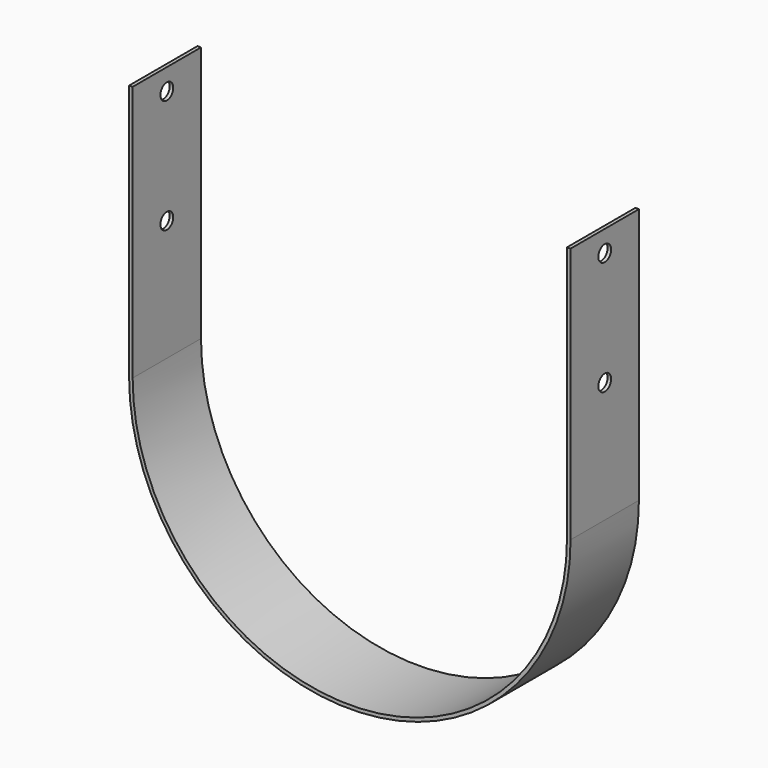
from build123d import *

# Parameters (mm, degrees)
F1_DEPTH = 38.1
F2_R     = 7.14375
F3_DEPTH = 508


with BuildPart() as f1:
    # F0 (on Front) → F1 (new body, symmetric)
    with BuildSketch(Plane.XZ):
        with BuildLine():
            ThreePointArc((193.675, 0), (0, -193.675), (-193.675, 0))
            Line((-193.675, 0), (-193.675, 228.6))
            Line((-193.675, 228.6), (-196.85, 228.6))
            Line((-196.85, 228.6), (-196.85, 0))
            ThreePointArc((-196.85, 0), (0, -196.85), (196.85, 0))
            Line((196.85, 0), (196.85, 228.6))
            Line((196.85, 228.6), (193.675, 228.6))
            Line((193.675, 228.6), (193.675, 0))
        make_face()
    extrude(amount=F1_DEPTH, both=True)

    # F2 (on face) → F3 (cut)
    with BuildSketch(Plane(origin=(-196.85, 0, 0), x_dir=(0, -1, 0), z_dir=(-1, 0, 0))):
        with Locations((0, 209.55)):
            Circle(F2_R)
        with Locations((0, 107.95)):
            Circle(F2_R)
    extrude(amount=-F3_DEPTH, mode=Mode.SUBTRACT)


solid = f1.part
